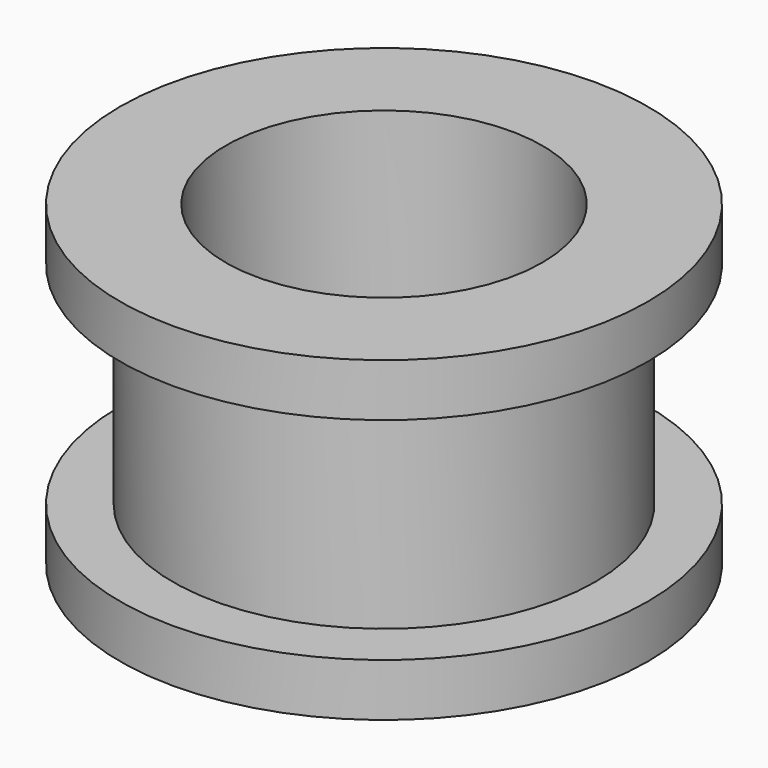
from build123d import *

# Parameters (mm, degrees)
F0_R     = 12.7
F0_R_2   = 7.9375
F1_DEPTH = 19.05
F2_R     = 9.525
F2_R_2   = 7.9375
F3_DEPTH = 15.875
F4_R     = 15.875
F4_R_2   = 12.7
F5_DEPTH = 3.175
F6_R     = 15.875
F6_R_2   = 12.7
F7_DEPTH = 3.175


with BuildPart() as f1:
    # F0 (on Top) → F1 (new body)
    with BuildSketch(Plane.XY):
        Circle(F0_R)
        Circle(F0_R_2, mode=Mode.SUBTRACT)
    extrude(amount=F1_DEPTH)

    # F2 (on face) → F3 (cut)
    with BuildSketch(Plane.XY.offset(19.05)):
        Circle(F2_R)
        Circle(F2_R_2, mode=Mode.SUBTRACT)
    extrude(amount=-F3_DEPTH, mode=Mode.SUBTRACT)

    # F4 (on face) → F5 (join)
    with BuildSketch(Plane.XY.offset(3.175)):
        Circle(F4_R)
        Circle(F4_R_2, mode=Mode.SUBTRACT)
    extrude(amount=-F5_DEPTH)

    # F6 (on face) → F7 (join)
    with BuildSketch(Plane.XY.offset(19.05)):
        Circle(F6_R)
        Circle(F6_R_2, mode=Mode.SUBTRACT)
    extrude(amount=-F7_DEPTH)


solid = f1.part
